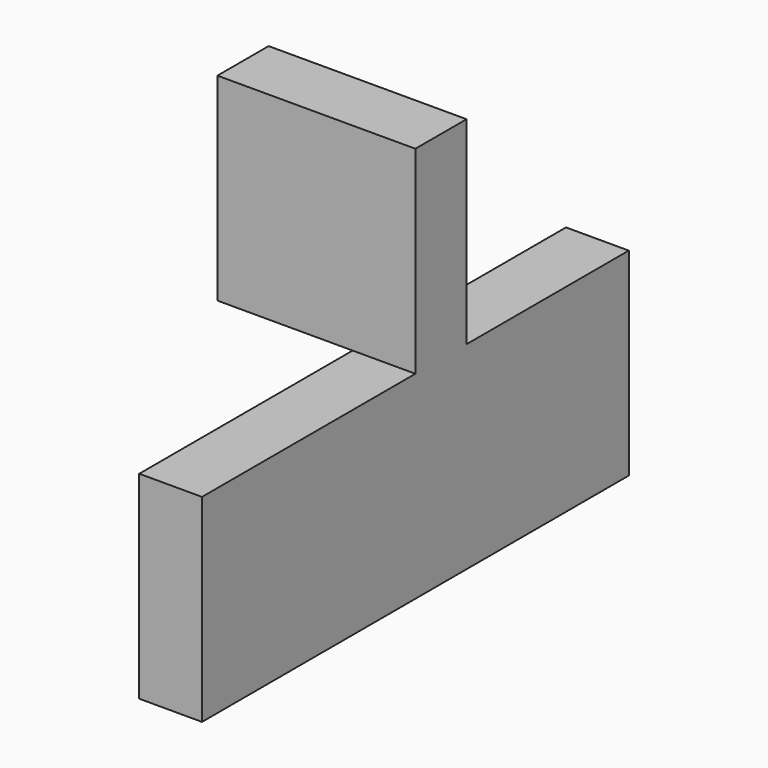
from build123d import *

# Parameters (mm, degrees)
F0_W     = 4.0237149224
F0_H     = 14.547271654
F0_H_2   = 2.553511411
F0_H_3   = 17.100783065
F1_DEPTH = 12.7
F2_W     = 8.6664613336
F2_H     = 4.1010938585
F2_W_2   = 4.0237149224
F3_DEPTH = 12.7


with BuildPart() as f1:
    # F0 (on Top) → F1 (new body)
    with BuildSketch(Plane.XY):
        with Locations((2.0118574612, 26.9279303029)):
            Rectangle(F0_W, F0_H)
        with Locations((2.0118574612, 18.3775387704)):
            Rectangle(F0_W, F0_H_2)
        with Locations((2.0118574612, 8.5503915325)):
            Rectangle(F0_W, F0_H_3)
    extrude(amount=F1_DEPTH)

    # F2 (on face) → F3 (join)
    with BuildSketch(Plane.XY.offset(12.7)):
        with Locations((-4.3332306668, 19.1513299942)):
            Rectangle(F2_W, F2_H)
        with Locations((2.0118574612, 19.1513299942)):
            Rectangle(F2_W_2, F2_H)
    extrude(amount=F3_DEPTH)


solid = f1.part
